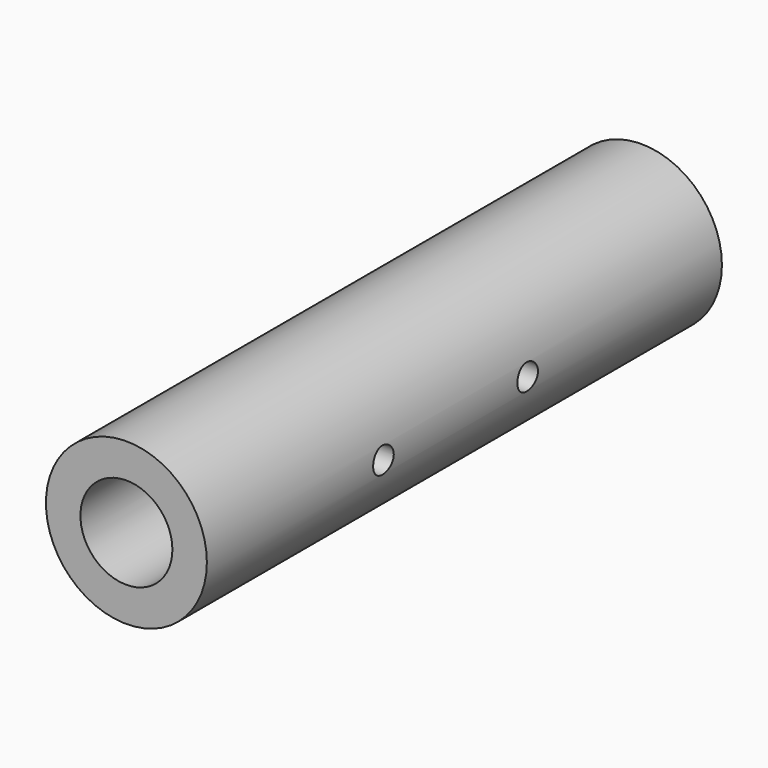
from build123d import *

# Parameters (mm, degrees)
F0_R     = 11.1125
F1_DEPTH = 44.45
F2_R     = 6.35
F3_DEPTH = 88.9
F4_R     = 1.778
F5_DEPTH = 12.7
F6_R     = 1.778
F7_DEPTH = 12.7


with BuildPart() as f1:
    # F0 (on Front) → F1 (new body, symmetric)
    with BuildSketch(Plane.XZ):
        Circle(F0_R)
    extrude(amount=F1_DEPTH, both=True)

    # F2 (on face) → F3 (cut, through all)
    with BuildSketch(Plane.XZ.offset(44.45)):
        Circle(F2_R)
    extrude(amount=-F3_DEPTH, mode=Mode.SUBTRACT)

    # F4 (on Right) → F5 (cut, symmetric)
    with BuildSketch(Plane.YZ):
        with Locations((-13.97, 0)):
            Circle(F4_R)
    extrude(amount=F5_DEPTH, both=True, mode=Mode.SUBTRACT)

    # F6 (on Right) → F7 (cut, symmetric)
    with BuildSketch(Plane.YZ):
        with Locations((10.922, 0)):
            Circle(F6_R)
    extrude(amount=F7_DEPTH, both=True, mode=Mode.SUBTRACT)


solid = f1.part
